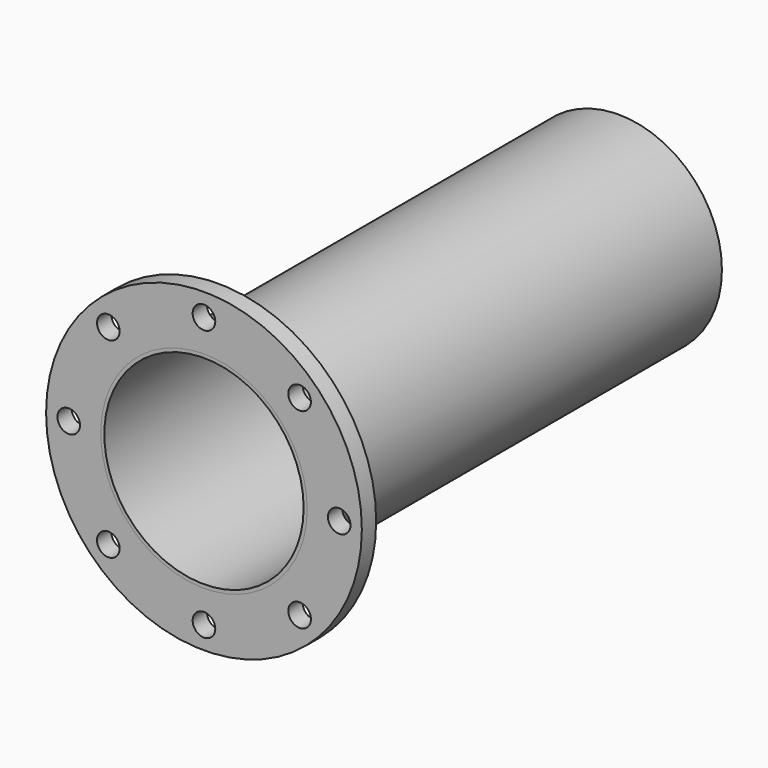
from build123d import *

# Parameters (mm, degrees)
F0_R     = 109.5
F0_R_2   = 105.74
F2_DEPTH = 550
F3_R     = 167.5
F3_R_2   = 12
F3_R_3   = 109.5
F4_DEPTH = 19


with BuildPart() as f2:
    # F0 (on Front) → F2 (new body)
    with BuildSketch(Plane.XZ):
        Circle(F0_R)
        Circle(F0_R_2, mode=Mode.SUBTRACT)
    extrude(amount=-F2_DEPTH)


with BuildPart() as f4:
    # F3 (on Front) → F4 (new body)
    with BuildSketch(Plane.XZ):
        Circle(F3_R)
        with Locations((-101.4698231003, -101.4698231003)):
            Circle(F3_R_2, mode=Mode.SUBTRACT)
        with Locations((0, -143.5)):
            Circle(F3_R_2, mode=Mode.SUBTRACT)
        with Locations((101.4698231003, -101.4698231003)):
            Circle(F3_R_2, mode=Mode.SUBTRACT)
        with Locations((-143.5, 0)):
            Circle(F3_R_2, mode=Mode.SUBTRACT)
        with Locations((-101.4698231003, 101.4698231003)):
            Circle(F3_R_2, mode=Mode.SUBTRACT)
        Circle(F3_R_3, mode=Mode.SUBTRACT)
        with Locations((143.5, 0)):
            Circle(F3_R_2, mode=Mode.SUBTRACT)
        with Locations((0, 143.5)):
            Circle(F3_R_2, mode=Mode.SUBTRACT)
        with Locations((101.4698231003, 101.4698231003)):
            Circle(F3_R_2, mode=Mode.SUBTRACT)
    extrude(amount=-F4_DEPTH)


solid = Compound([f2.part, f4.part])
